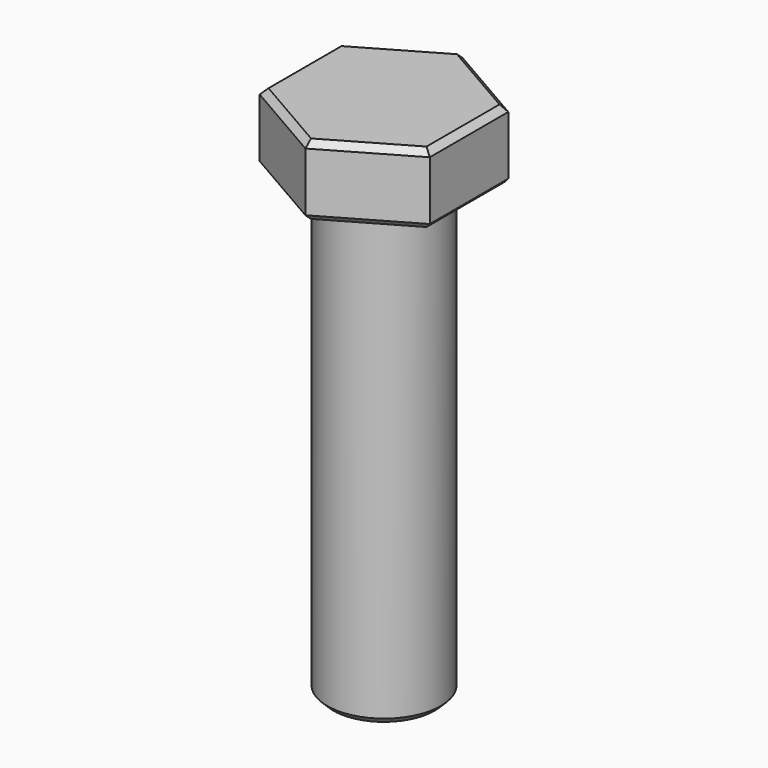
from build123d import *

# Parameters (mm, degrees)
F0_R     = 4.7625
F1_DEPTH = 5.95122
F2_DEPTH = 38.1
F3_SIZE  = 0.508
F4_SIZE  = 0.508


with BuildPart() as f1:
    # F0 (on Top) → F1 (new body)
    with BuildSketch(Plane.XY):
        Polygon((7.14375, -4.124446), (7.14375, 4.124446), (0, 8.248892), (-7.14375, 4.124446), (-7.14375, -4.124446), (0, -8.248892), align=None)
        Circle(F0_R, mode=Mode.SUBTRACT)
        Circle(F0_R)
    extrude(amount=F1_DEPTH)

    # F0 (on Top) → F2 (join)
    with BuildSketch(Plane.XY):
        Circle(F0_R)
    extrude(amount=-F2_DEPTH)

    # F3
    f3_edges = [f1.edges().sort_by_distance(p)[0] for p in [
        (-4.7625, 0, -38.1),
    ]]
    chamfer(f3_edges, length=F3_SIZE)

    # F4
    f4_edges = [f1.edges().sort_by_distance(p)[0] for p in [
        (3.571875, -6.186669, 5.95122),
        (7.14375, 0, 5.95122),
        (3.571875, 6.186669, 5.95122),
        (-3.571875, 6.186669, 5.95122),
        (-7.14375, 0, 5.95122),
        (-3.571875, -6.186669, 5.95122),
        (-3.571875, -6.186669, 0),
        (3.571875, -6.186669, 0),
        (7.14375, 0, 0),
        (-7.14375, 0, 0),
        (-3.571875, 6.186669, 0),
    ]]
    chamfer(f4_edges, length=F4_SIZE)


solid = f1.part
